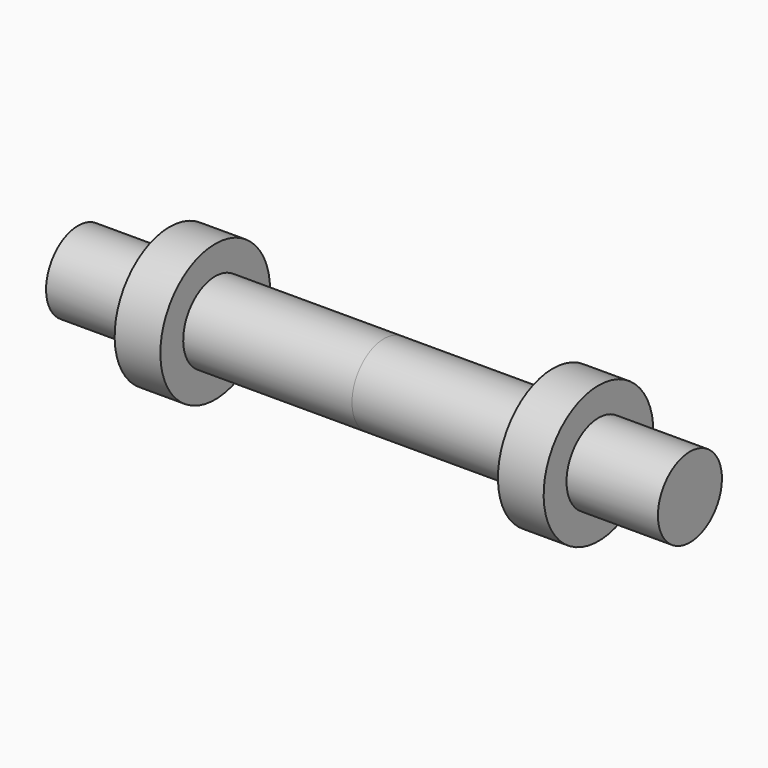
from build123d import *


with BuildPart() as f1:
    # F0 (on Front) → F1 (revolve)
    with BuildSketch(Plane.XZ):
        Polygon((0, 17.5), (0, 0), (133.846119, 0), (133.846119, 17.5), (93.846119, 17.5), (93.846119, 30), (73.846136, 30), (73.846136, 17.5), align=None)
    revolve(axis=Axis((66.923059, 0, 0), (-1, 0, 0)))

    # F2: F1 across face


with BuildPart() as f1_1:
    add(f1.part)
    add(f1.part.mirror(Plane(origin=(0, 0, 0), x_dir=(0, -1, 0), z_dir=(-1, 0, 0))))


solid = f1_1.part
